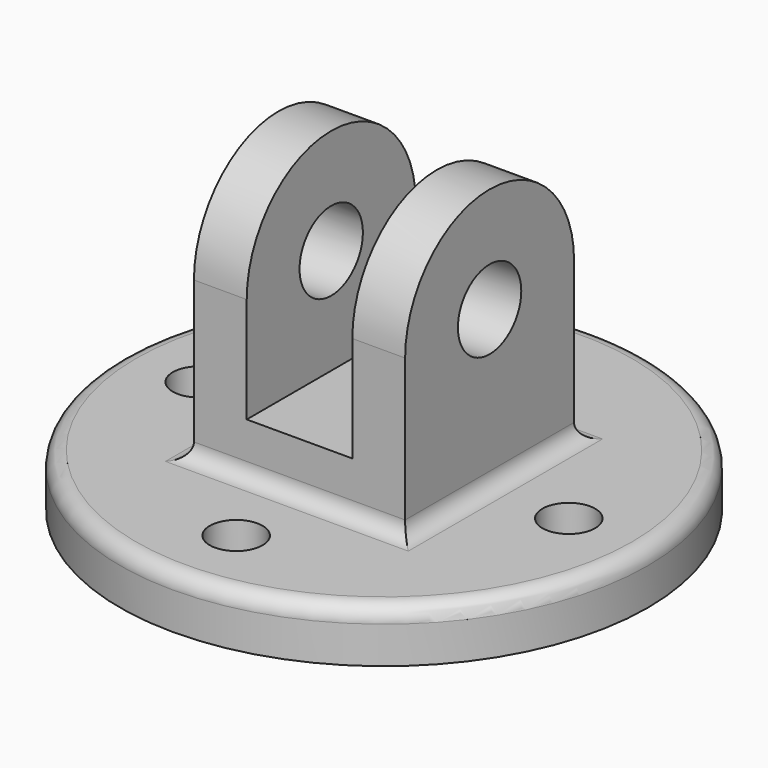
from build123d import *

# Parameters (mm, degrees)
F0_R      = 63.5
F1_DEPTH  = 12.7
F3_D      = 12.7
F4_W      = 50.8
F4_H      = 38.1
F5_DEPTH  = 25.4
F6_W      = 25.4
F6_H      = 25.4
F7_DEPTH  = 88.901
F8_R      = 3.81
F11_DEPTH = 12.7
F12_DEPTH = 12.7
F13_R     = 9.525
F14_DEPTH = 88.901


with BuildPart() as f1:
    # F0 (on Top) → F1 (new body)
    with BuildSketch(Plane.XY):
        Circle(F0_R)
    extrude(amount=F1_DEPTH)

    # F3 (through all)
    with Locations(Plane.XY.offset(12.7)):
        with Locations((0, 44.45), (-44.45, 0), (0, -44.45), (44.45, 0)):
            Hole(F3_D / 2)

    # F4 (on Front) → F5 (join, symmetric)
    with BuildSketch(Plane.XZ):
        with Locations((0, 31.75)):
            Rectangle(F4_W, F4_H)
    extrude(amount=F5_DEPTH, both=True)

    # F6 (on face) → F7 (cut, through all)
    with BuildSketch(Plane.XZ.offset(25.4)):
        with Locations((0, 38.1)):
            Rectangle(F6_W, F6_H)
    extrude(amount=-F7_DEPTH, mode=Mode.SUBTRACT)

    # F8
    f8_edges = [f1.edges().sort_by_distance(p)[0] for p in [
        (-63.5, 0, 12.7),
        (0, -25.4, 12.7),
        (25.4, 0, 12.7),
        (-25.4, 0, 12.7),
        (0, 25.4, 12.7),
    ]]
    fillet(f8_edges, radius=F8_R)

    # F9 (on face) → F11 (join)
    with BuildSketch(Plane.YZ.offset(25.4)):
        with BuildLine():
            Line((-25.4, 50.8), (25.4, 50.8))
            ThreePointArc((25.4, 50.8), (0, 76.2), (-25.4, 50.8))
        make_face()
    extrude(amount=-F11_DEPTH)

    # F10 (on face) → F12 (join)
    with BuildSketch(Plane(origin=(-25.4, 0, 0), x_dir=(0, -1, 0), z_dir=(-1, 0, 0))):
        with BuildLine():
            Line((-25.4, 50.8), (25.4, 50.8))
            ThreePointArc((25.4, 50.8), (0, 76.2), (-25.4, 50.8))
        make_face()
    extrude(amount=-F12_DEPTH)

    # F13 (on face) → F14 (cut, through all)
    with BuildSketch(Plane.YZ.offset(25.4)):
        with Locations((0, 50.8)):
            Circle(F13_R)
    extrude(amount=-F14_DEPTH, mode=Mode.SUBTRACT)


solid = f1.part
